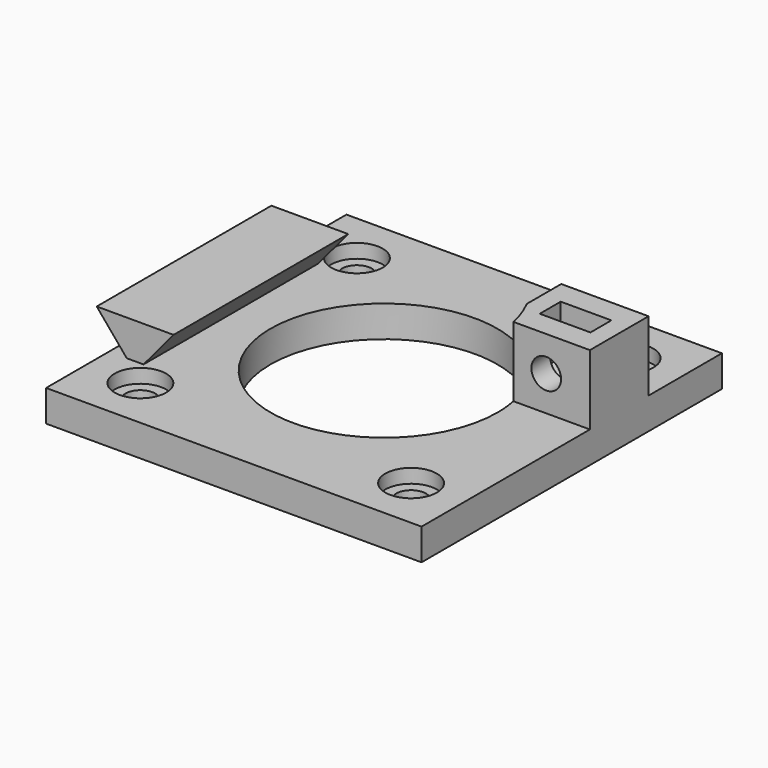
from build123d import *

# Parameters (mm, degrees)
SKETCH_W        = 43
SKETCH_H        = 43
SKETCH_R        = 13
SKETCH_R_2      = 1.7
PAD_DEPTH       = 3.6
SKETCH001_R     = 2.95
POCKET_DEPTH    = 1.6
PAD001_DEPTH    = 8
SKETCH003_R     = 1.7
POCKET001_DEPTH = 18.901
POCKET002_DEPTH = 1.5
PAD002_DEPTH    = 12.5


with BuildPart() as part:
    # Sketch → Pad (new body)
    with BuildSketch(Plane.XY):
        Rectangle(SKETCH_W, SKETCH_H)
        Circle(SKETCH_R, mode=Mode.SUBTRACT)
        with Locations((-15.5, 15.5)):
            Circle(SKETCH_R_2, mode=Mode.SUBTRACT)
        with Locations((15.5, 15.5)):
            Circle(SKETCH_R_2, mode=Mode.SUBTRACT)
        with Locations((15.5, -15.5)):
            Circle(SKETCH_R_2, mode=Mode.SUBTRACT)
        with Locations((-15.5, -15.5)):
            Circle(SKETCH_R_2, mode=Mode.SUBTRACT)
    extrude(amount=PAD_DEPTH)

    # Sketch001 (on Face11 of Pad) → Pocket (cut)
    with BuildSketch(Plane.XY.offset(3.6)):
        with Locations((15.5, 15.5)):
            Circle(SKETCH001_R)
        with Locations((-15.5, 15.5)):
            Circle(SKETCH001_R)
        with Locations((-15.5, -15.5)):
            Circle(SKETCH001_R)
        with Locations((15.5, -15.5)):
            Circle(SKETCH001_R)
    extrude(amount=-POCKET_DEPTH, mode=Mode.SUBTRACT)

    # Sketch002 (on Face5 of Pocket) → Pad001 (join)
    with BuildSketch(Plane.XY.offset(3.6)):
        with BuildLine():
            ThreePointArc((12.737347, 2.6), (12.241687, 4.375053), (11.5, 6.062178))
            Line((11.5, 6.062178), (11.5, 11))
            Line((11.5, 11), (21.5, 11))
            Line((21.5, 11), (21.5, 2.6))
            Line((21.5, 2.6), (12.737347, 2.6))
        make_face()
    extrude(amount=PAD001_DEPTH)

    # Sketch003 (on Face10 of Pad001) → Pocket001 (cut, through all)
    with BuildSketch(Plane.XZ.offset(-2.6)):
        with Locations((16.5, 7.6)):
            Circle(SKETCH003_R)
    extrude(amount=-POCKET001_DEPTH, mode=Mode.SUBTRACT)

    # Sketch004 (on DatumPlane) → Pocket002 (cut, symmetric)
    with BuildSketch(Plane.XZ.offset(-6.8)):
        Polygon((13.598815, 5.925), (16.5, 4.25), (19.401185, 5.925), (19.401185, 15.925), (13.598815, 15.925), align=None)
    extrude(amount=POCKET002_DEPTH, both=True, mode=Mode.SUBTRACT)

    # Sketch005 → Pad002 (join, symmetric)
    with BuildSketch(Plane.XZ):
        Polygon((-22.9, 7.7), (-14.1, 7.7), (-18.5, 2.456284), align=None)
    extrude(amount=PAD002_DEPTH, both=True)


solid = part.part
